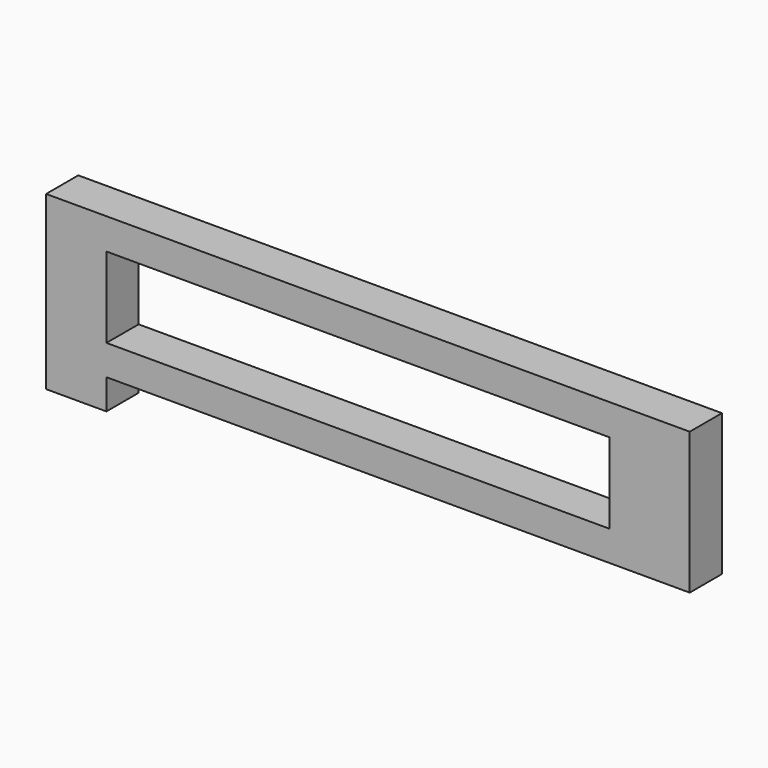
from build123d import *

# Parameters (mm, degrees)
F0_W     = 50
F0_H     = 8
F1_DEPTH = 2


with BuildPart() as f1:
    # F0 (on Front) → F1 (new body, symmetric)
    with BuildSketch(Plane.XZ):
        Polygon((31.9974, -5.5436906666), (31.9974, 8.5436906666), (-31.9974, 8.5436906666), (-31.9974, -8.5436906666), (-25.9974, -8.5436906666), (-25.9974, -5.5436906666), align=None)
        with Locations((-0.9974, 1.4563093334)):
            Rectangle(F0_W, F0_H, mode=Mode.SUBTRACT)
    extrude(amount=F1_DEPTH, both=True)


solid = f1.part
